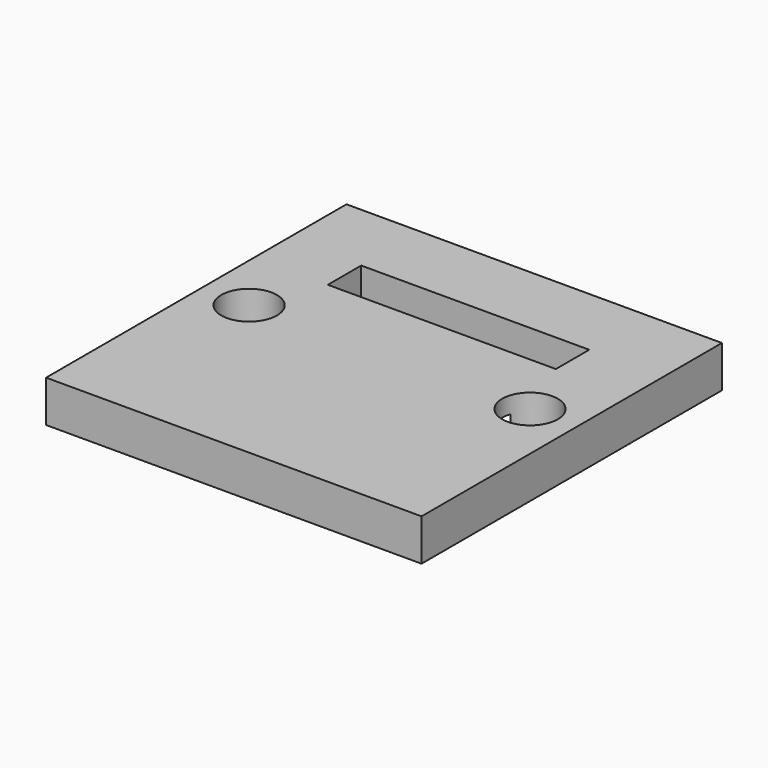
from build123d import *

# Parameters (mm, degrees)
SKETCH_W        = 27
SKETCH_H        = 27
PAD_DEPTH       = 3
SKETCH001_W     = 16.4
SKETCH001_H     = 3
POCKET_DEPTH    = 5
SKETCH002_W     = 16.4
SKETCH002_H     = 11
POCKET001_DEPTH = 1.8
CHAMFER_SIZE    = 0.6
SKETCH003_R     = 2
POCKET002_DEPTH = 3.001


with BuildPart() as part:
    # Sketch → Pad (new body)
    with BuildSketch(Plane.XY):
        Rectangle(SKETCH_W, SKETCH_H)
    extrude(amount=PAD_DEPTH)

    # Sketch001 (on Face5 of Pad) → Pocket (cut)
    with BuildSketch(Plane(origin=(0, 0, 0), x_dir=(1, 0, 0), z_dir=(0, 0, -1))):
        with Locations((0, -6.7)):
            Rectangle(SKETCH001_W, SKETCH001_H)
    extrude(amount=-POCKET_DEPTH, mode=Mode.SUBTRACT)

    # Sketch002 (on Face4 of Pocket) → Pocket001 (cut)
    with BuildSketch(Plane(origin=(0, 0, 0), x_dir=(1, 0, 0), z_dir=(0, 0, -1))):
        with Locations((0, 2.3)):
            Rectangle(SKETCH002_W, SKETCH002_H)
    extrude(amount=-POCKET001_DEPTH, mode=Mode.SUBTRACT)

    # Chamfer
    chamfer_edges = [part.edges().sort_by_distance(p)[0] for p in [
        (8.2, -2.3, 0),
        (0, -7.8, 0),
        (-8.2, -2.3, 0),
        (0, 3.2, 0),
        (0, 5.2, 0),
        (8.2, 6.7, 0),
        (0, 8.2, 0),
        (-8.2, 6.7, 0),
    ]]
    chamfer(chamfer_edges, length=CHAMFER_SIZE)

    # Sketch003 (on Face18 of Chamfer) → Pocket002 (cut, through all)
    with BuildSketch(Plane.XY.offset(3)):
        with Locations((-10.1, 0.5)):
            Circle(SKETCH003_R)
        with Locations((10.1, 0.5)):
            Circle(SKETCH003_R)
    extrude(amount=-POCKET002_DEPTH, mode=Mode.SUBTRACT)


solid = part.part
